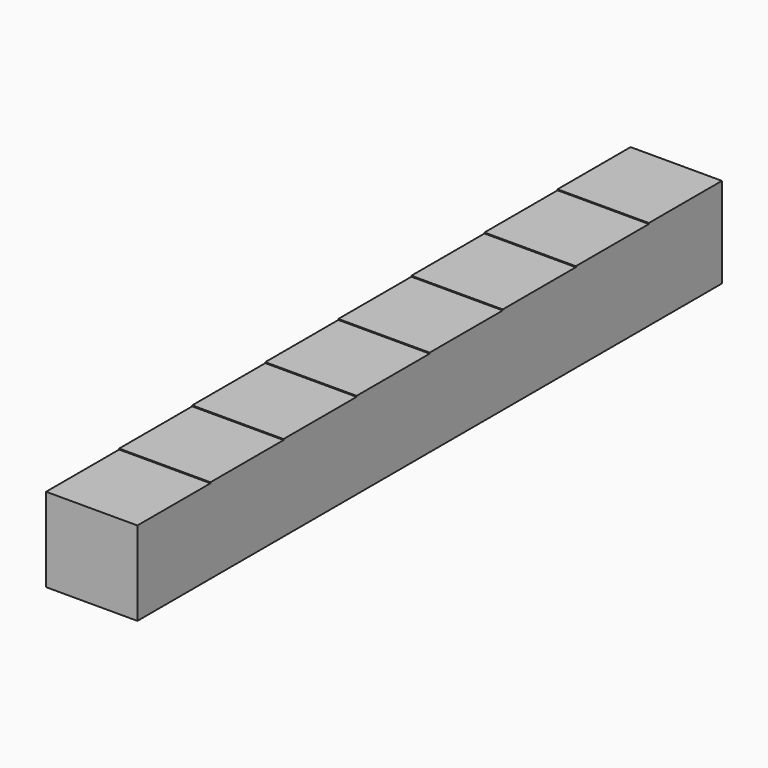
from build123d import *

# Parameters (mm, degrees)
F1_DEPTH = 10


with BuildPart() as f1:
    # F0 (on Right) → F1 (new body)
    with BuildSketch(Plane.YZ):
        Polygon((0, 9.2), (0, 0), (80, 0), (80, 9.9), (70, 9.9), (70, 9.8), (60, 9.8), (60, 9.7), (50, 9.7), (50, 9.6), (40, 9.6), (40, 9.5), (30, 9.5), (30, 9.4), (20, 9.4), (20, 9.3), (10, 9.3), (10, 9.2), align=None)
    extrude(amount=F1_DEPTH)


solid = f1.part
